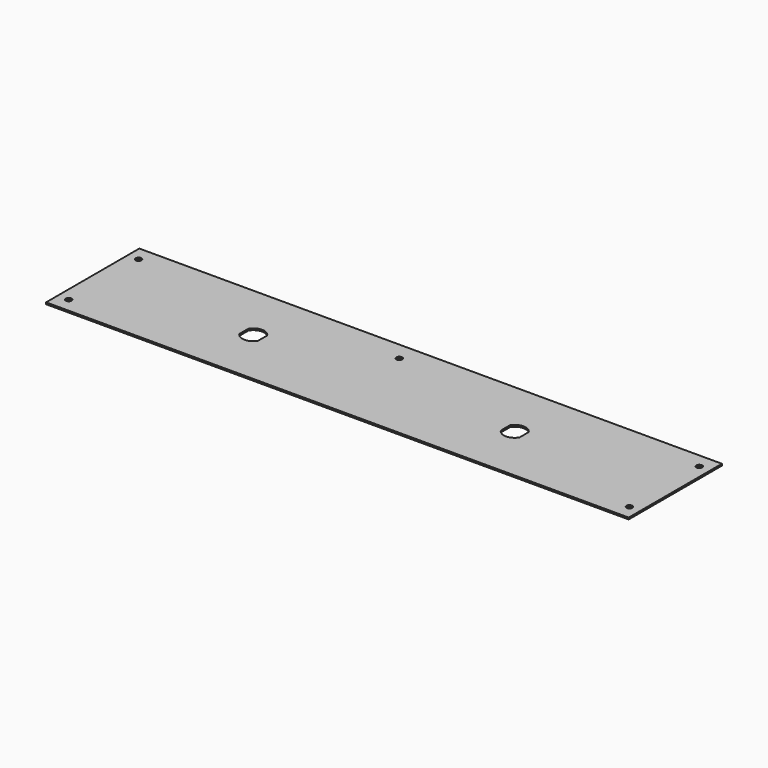
from build123d import *

# Parameters (mm, degrees)
F0_W     = 508
F0_H     = 101.6
F0_R     = 2.54
F1_DEPTH = 1.5
F3_DEPTH = 25


with BuildPart() as f1:
    # F0 (on Top) → F1 (new body)
    with BuildSketch(Plane.XY):
        with Locations((254, 50.8)):
            Rectangle(F0_W, F0_H)
        with Locations((9.525, 12.7)):
            Circle(F0_R, mode=Mode.SUBTRACT)
        with Locations((498.475, 12.7)):
            Circle(F0_R, mode=Mode.SUBTRACT)
        with Locations((9.525, 88.9)):
            Circle(F0_R, mode=Mode.SUBTRACT)
        with Locations((239.395, 85.725)):
            Circle(F0_R, mode=Mode.SUBTRACT)
        with Locations((498.475, 88.9)):
            Circle(F0_R, mode=Mode.SUBTRACT)
    extrude(amount=-F1_DEPTH)

    # F2 (on Top) → F3 (cut)
    with BuildSketch(Plane.XY):
        with BuildLine():
            Line((148.15, 45.822049), (148.15, 55.777951))
            ThreePointArc((148.15, 55.777951), (140, 60.35), (131.85, 55.777951))
            Line((131.85, 55.777951), (131.85, 45.822049))
            ThreePointArc((131.85, 45.822049), (140, 41.25), (148.15, 45.822049))
        make_face()
        with BuildLine():
            Line((376.15, 45.822049), (376.15, 55.777951))
            ThreePointArc((376.15, 55.777951), (368, 60.35), (359.85, 55.777951))
            Line((359.85, 55.777951), (359.85, 45.822049))
            ThreePointArc((359.85, 45.822049), (368, 41.25), (376.15, 45.822049))
        make_face()
    extrude(amount=-F3_DEPTH, mode=Mode.SUBTRACT)


solid = f1.part
